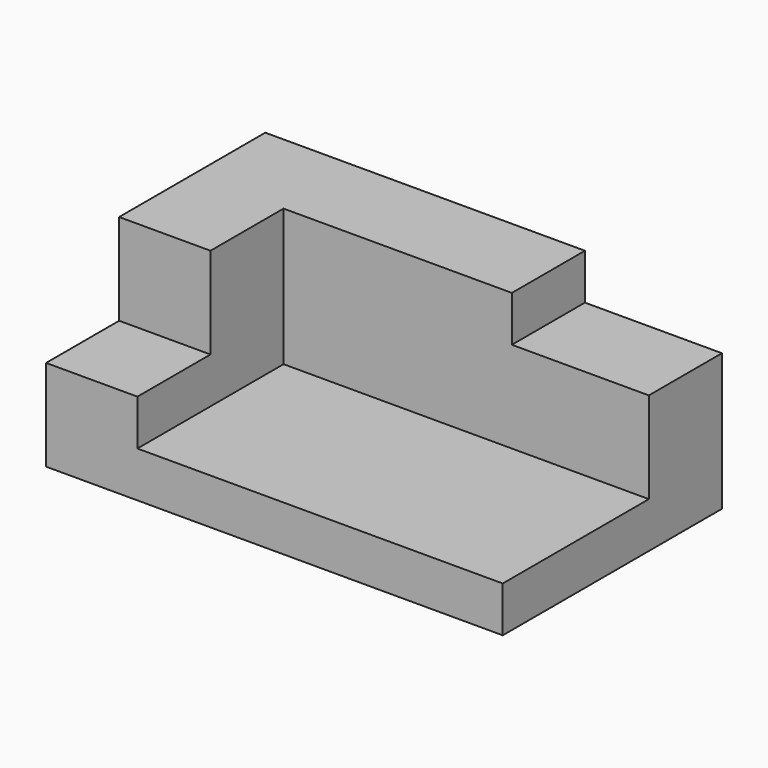
from build123d import *

# Parameters (mm, degrees)
F0_W     = 100
F0_H     = 60
F1_DEPTH = 40
F2_W     = 80
F2_H     = 40
F3_DEPTH = 30
F4_W     = 30
F4_H     = 20
F5_DEPTH = 10
F4_W_2   = 20
F6_DEPTH = 20


with BuildPart() as f1:
    # F0 (on Top) → F1 (new body)
    with BuildSketch(Plane.XY):
        with Locations((50, 30)):
            Rectangle(F0_W, F0_H)
    extrude(amount=F1_DEPTH)

    # F2 (on face) → F3 (cut)
    with BuildSketch(Plane.XY.offset(40)):
        with Locations((60, 20)):
            Rectangle(F2_W, F2_H)
    extrude(amount=-F3_DEPTH, mode=Mode.SUBTRACT)

    # F4 (on face) → F5 (cut)
    with BuildSketch(Plane.XY.offset(40)):
        with Locations((85, 50)):
            Rectangle(F4_W, F4_H)
    extrude(amount=-F5_DEPTH, mode=Mode.SUBTRACT)

    # F4 (on face) → F6 (cut)
    with BuildSketch(Plane.XY.offset(40)):
        with Locations((10, 10)):
            Rectangle(F4_W_2, F4_H)
    extrude(amount=-F6_DEPTH, mode=Mode.SUBTRACT)


solid = f1.part
